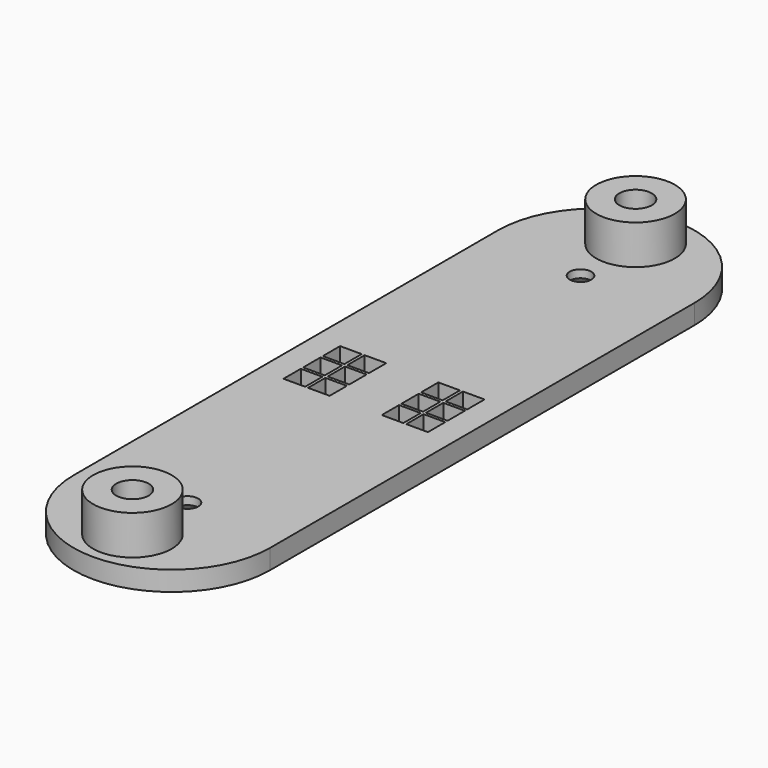
from build123d import *

# Parameters (mm, degrees)
SKETCH_R        = 1.65
SKETCH_R_2      = 1.1
SKETCH_W        = 2.2
SKETCH_H        = 2.2
PAD_DEPTH       = 2
CHAMFER_SIZE    = 1.65
SKETCH001_R     = 4
SKETCH001_R_2   = 1.65
PAD001_DEPTH    = 4
CHAMFER001_SIZE = 1.2


with BuildPart() as chamfer_body:
    # Sketch → Pad (new body)
    with BuildSketch(Plane.XY):
        with BuildLine():
            Line((0, 10), (0, 64))
            ThreePointArc((20, 64), (10, 74), (0, 64))
            Line((20, 64), (20, 10))
            ThreePointArc((0, 10), (10, 0), (20, 10))
        make_face()
        with Locations((10, 69)):
            Circle(SKETCH_R, mode=Mode.SUBTRACT)
        with Locations((10, 5)):
            Circle(SKETCH_R, mode=Mode.SUBTRACT)
        with Locations((10, 62)):
            Circle(SKETCH_R_2, mode=Mode.SUBTRACT)
        with Locations((10, 12)):
            Circle(SKETCH_R_2, mode=Mode.SUBTRACT)
        with Locations((3.75, 39.5)):
            Rectangle(SKETCH_W, SKETCH_H, mode=Mode.SUBTRACT)
        with Locations((3.75, 37)):
            Rectangle(SKETCH_W, SKETCH_H, mode=Mode.SUBTRACT)
        with Locations((3.75, 34.5)):
            Rectangle(SKETCH_W, SKETCH_H, mode=Mode.SUBTRACT)
        with Locations((6.25, 34.5)):
            Rectangle(SKETCH_W, SKETCH_H, mode=Mode.SUBTRACT)
        with Locations((6.25, 37)):
            Rectangle(SKETCH_W, SKETCH_H, mode=Mode.SUBTRACT)
        with Locations((6.25, 39.5)):
            Rectangle(SKETCH_W, SKETCH_H, mode=Mode.SUBTRACT)
        with Locations((13.75, 39.5)):
            Rectangle(SKETCH_W, SKETCH_H, mode=Mode.SUBTRACT)
        with Locations((13.75, 37)):
            Rectangle(SKETCH_W, SKETCH_H, mode=Mode.SUBTRACT)
        with Locations((13.75, 34.5)):
            Rectangle(SKETCH_W, SKETCH_H, mode=Mode.SUBTRACT)
        with Locations((16.25, 34.5)):
            Rectangle(SKETCH_W, SKETCH_H, mode=Mode.SUBTRACT)
        with Locations((16.25, 37)):
            Rectangle(SKETCH_W, SKETCH_H, mode=Mode.SUBTRACT)
        with Locations((16.25, 39.5)):
            Rectangle(SKETCH_W, SKETCH_H, mode=Mode.SUBTRACT)
    extrude(amount=PAD_DEPTH)

    # Chamfer
    chamfer_edges = [chamfer_body.edges().sort_by_distance(p)[0] for p in [
        (8.35, 69, 0),
        (8.35, 5, 0),
    ]]
    chamfer(chamfer_edges, length=CHAMFER_SIZE)


with BuildPart() as chamfer001:
    # Sketch001 → Pad001 (new body)
    with BuildSketch(Plane.XY.offset(2)):
        with Locations((10, 69)):
            Circle(SKETCH001_R)
        with Locations((10, 69)):
            Circle(SKETCH001_R_2, mode=Mode.SUBTRACT)
        with Locations((10, 5)):
            Circle(SKETCH001_R)
        with Locations((10, 5)):
            Circle(SKETCH001_R_2, mode=Mode.SUBTRACT)
    extrude(amount=PAD001_DEPTH)

    # Fusion: union Chamfer body
    add(chamfer_body.part)

    # Chamfer001
    chamfer001_edges = [chamfer001.edges().sort_by_distance(p)[0] for p in [
        (8.9, 62, 0),
        (8.9, 12, 0),
    ]]
    chamfer(chamfer001_edges, length=CHAMFER001_SIZE)


solid = chamfer001.part
